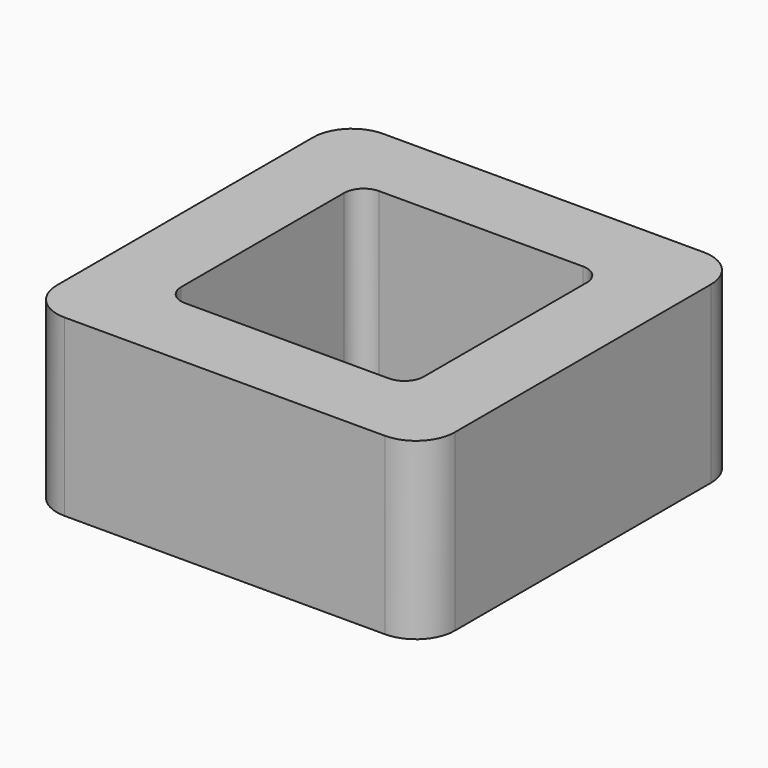
from build123d import *

# Parameters (mm, degrees)
F0_W     = 10.25
F0_H     = 10.25
F0_W_2   = 6.25
F0_H_2   = 6.25
F1_DEPTH = 4.5
F2_R     = 1
F3_R     = 0.5


with BuildPart() as f1:
    # F0 (on Top) → F1 (new body)
    with BuildSketch(Plane.XY):
        with Locations((3.125, 3.125)):
            Rectangle(F0_W, F0_H)
        with Locations((3.125, 3.125)):
            Rectangle(F0_W_2, F0_H_2, mode=Mode.SUBTRACT)
    extrude(amount=F1_DEPTH)

    # F2
    f2_edges = [f1.edges().sort_by_distance(p)[0] for p in [
        (-2, -2, 2.25),
        (8.25, -2, 2.25),
        (8.25, 8.25, 2.25),
        (-2, 8.25, 2.25),
    ]]
    fillet(f2_edges, radius=F2_R)

    # F3
    f3_edges = [f1.edges().sort_by_distance(p)[0] for p in [
        (0, 6.25, 2.25),
        (6.25, 6.25, 2.25),
        (0, 0, 2.25),
        (6.25, 0, 2.25),
    ]]
    fillet(f3_edges, radius=F3_R)


solid = f1.part
